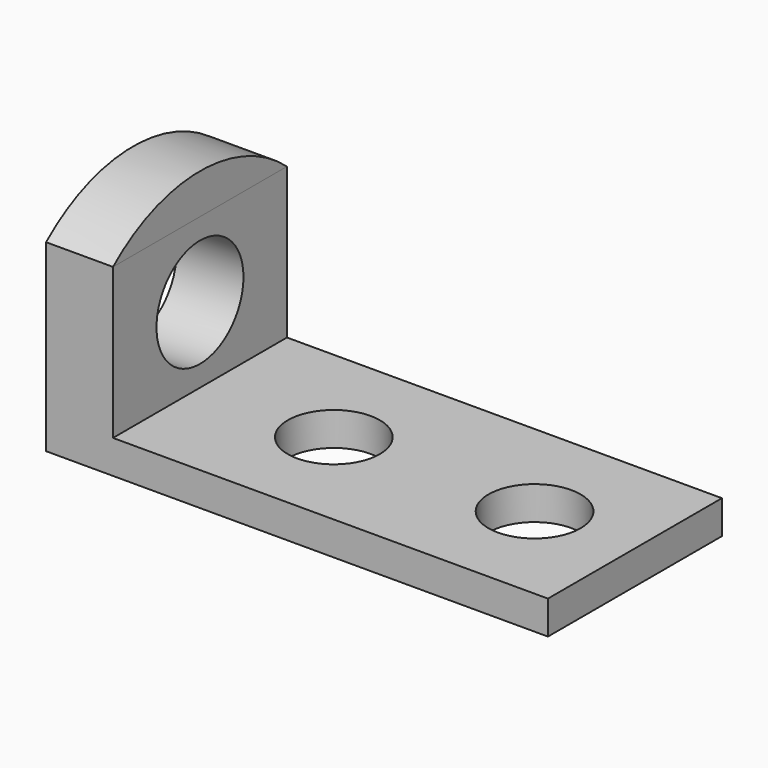
from build123d import *

# Parameters (mm, degrees)
F0_W     = 190.5
F0_H     = 12.7
F1_DEPTH = 82.55
F2_W     = 25.4
F2_H     = 82.55
F3_DEPTH = 57.15
F5_DEPTH = 25.4
F6_R     = 20.6375
F7_DEPTH = 25.4
F8_R     = 17.4625
F9_DEPTH = 12.7


with BuildPart() as f1:
    # F0 (on Front) → F1 (new body)
    with BuildSketch(Plane.XZ):
        with Locations((95.25, 6.35)):
            Rectangle(F0_W, F0_H)
    extrude(amount=F1_DEPTH)

    # F2 (on face) → F3 (join)
    with BuildSketch(Plane.XY.offset(12.7)):
        with Locations((12.7, -41.275)):
            Rectangle(F2_W, F2_H)
    extrude(amount=F3_DEPTH)

    # F6 (on face) → F7 (cut, through all)
    with BuildSketch(Plane.YZ.offset(25.4)):
        with Locations((-41.275, 41.275)):
            Circle(F6_R)
    extrude(amount=-F7_DEPTH, mode=Mode.SUBTRACT)

    # F8 (on face) → F9 (cut, through all)
    with BuildSketch(Plane.XY.offset(12.7)):
        with Locations((76.2, -41.275)):
            Circle(F8_R)
        with Locations((152.4, -41.275)):
            Circle(F8_R)
    extrude(amount=-F9_DEPTH, mode=Mode.SUBTRACT)


with BuildPart() as f5:
    # F4 (on face) → F5 (new body)
    with BuildSketch(Plane.YZ.offset(25.4)):
        with BuildLine():
            Line((-82.55, 69.85), (0, 69.85))
            ThreePointArc((0, 69.85), (-41.275, 85.094178), (-82.55, 69.85))
        make_face()
    extrude(amount=-F5_DEPTH)


solid = Compound([f1.part, f5.part])
